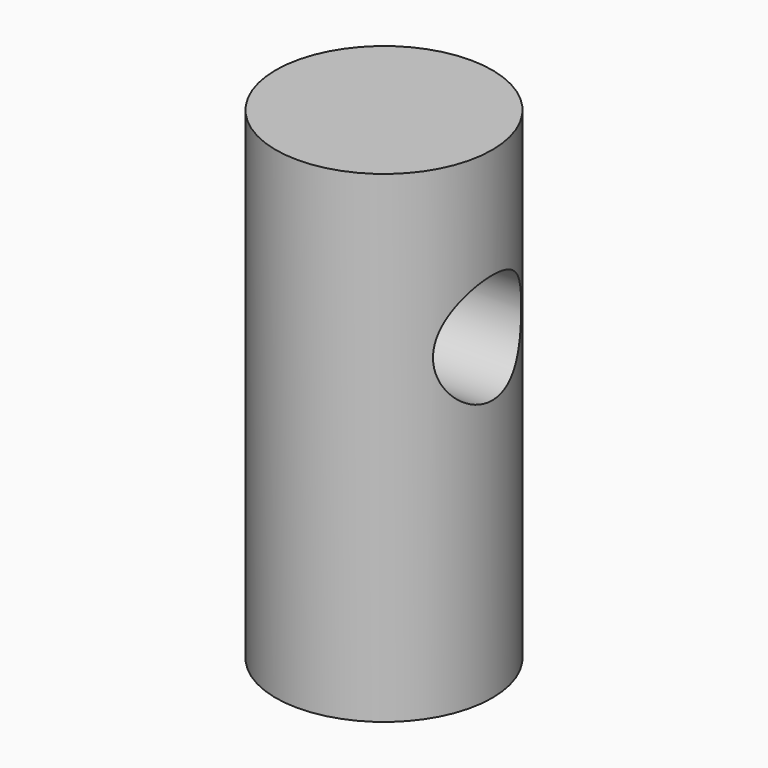
from build123d import *

# Parameters (mm, degrees)
F0_R     = 7.85
F1_DEPTH = 35
F2_R     = 4
F3_DEPTH = 12.5
F4_R     = 4
F5_DEPTH = 18


with BuildPart() as f1:
    # F0 (on Top) → F1 (new body)
    with BuildSketch(Plane.XY):
        Circle(F0_R)
    extrude(amount=F1_DEPTH)

    # F2 (on Right) → F3 (cut, symmetric)
    with BuildSketch(Plane.YZ):
        with Locations((0, 23)):
            Circle(F2_R)
    extrude(amount=F3_DEPTH, both=True, mode=Mode.SUBTRACT)

    # F4 (on face) → F5 (cut)
    with BuildSketch(Plane(origin=(0, 0, 0), x_dir=(1, 0, 0), z_dir=(0, 0, -1))):
        Circle(F4_R)
    extrude(amount=-F5_DEPTH, mode=Mode.SUBTRACT)


solid = f1.part
